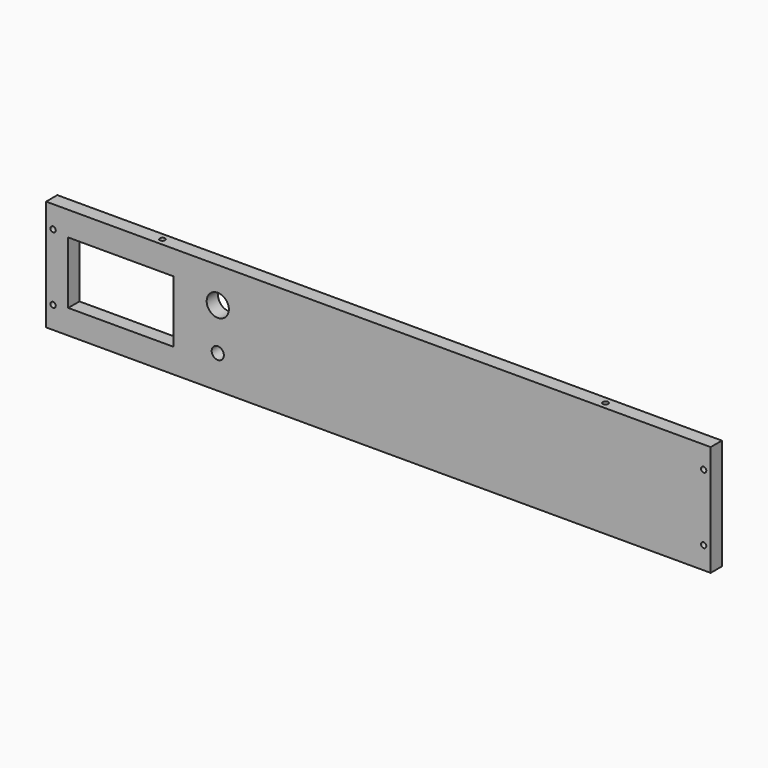
from build123d import *

# Parameters (mm, degrees)
F0_W     = 300
F0_H     = 50
F0_W_2   = 47.5
F0_H_2   = 28
F0_R     = 5
F1_DEPTH = 3.175
F3_D     = 2.4
F5_D     = 2.4
F5_DEPTH = 12
F5_TIP   = 0.7210327428
F7_D     = 5.5


with BuildPart() as f1:
    # F0 (on Front) → F1 (new body, symmetric)
    with BuildSketch(Plane.XZ):
        Rectangle(F0_W, F0_H)
        with Locations((-116.25, 0)):
            Rectangle(F0_W_2, F0_H_2, mode=Mode.SUBTRACT)
        with Locations((-72.5, 9)):
            Circle(F0_R, mode=Mode.SUBTRACT)
    extrude(amount=F1_DEPTH, both=True)

    # F3 (through all)
    with Locations(Plane.XZ.offset(3.175)):
        with Locations((-146.825, 15), (-146.825, -15), (146.825, 15), (146.825, -15)):
            Hole(F3_D / 2)

    # F5
    with Locations(Plane.XY.offset(25)):
        with Locations((-100, 0), (100, 0)):
            Hole(F5_D / 2, depth=F5_DEPTH)
            with Locations((0, 0, -(F5_DEPTH + F5_TIP / 2))):  # 118° drill point
                Cone(0, F5_D / 2, F5_TIP, mode=Mode.SUBTRACT)

    # F7 (through all)
    with Locations(Plane.XZ.offset(3.175)):
        with Locations((-72.5, -10)):
            Hole(F7_D / 2)


solid = f1.part
